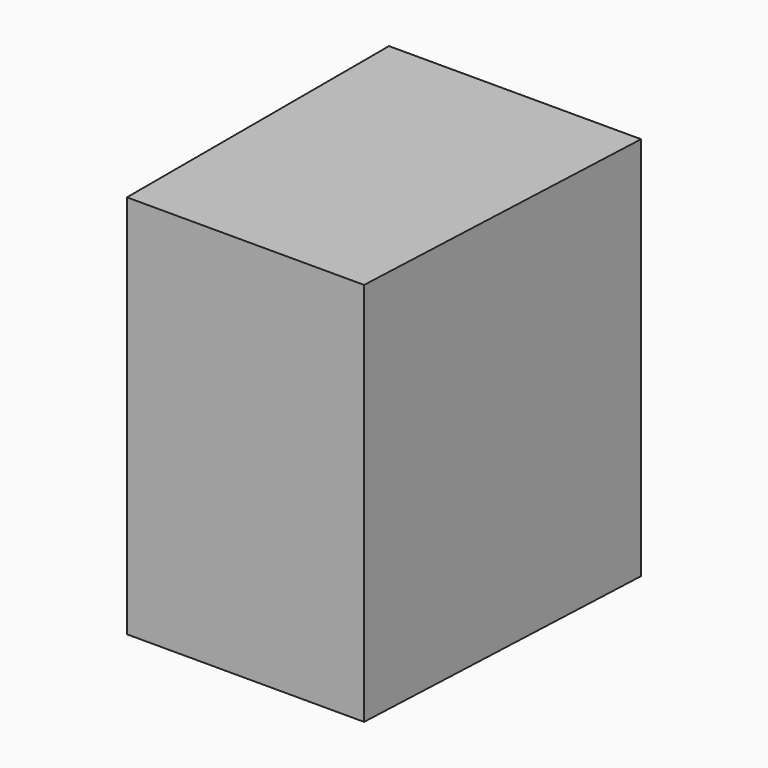
from build123d import *

# Parameters (mm, degrees)
F1_DEPTH      = 25.4
F1_DEPTH_BACK = 49.644992


with BuildPart() as f1:
    # F0 (on Top) → F1 (new body, two sides)
    with BuildSketch(Plane.XY) as f1_sk:
        Polygon((-23.857594, 36.097556), (-23.857594, -27.799249), (22.405341, -27.799249), (25.309741, 36.097556), align=None)
    extrude(amount=F1_DEPTH)
    extrude(f1_sk.sketch, amount=-F1_DEPTH_BACK)


solid = f1.part
